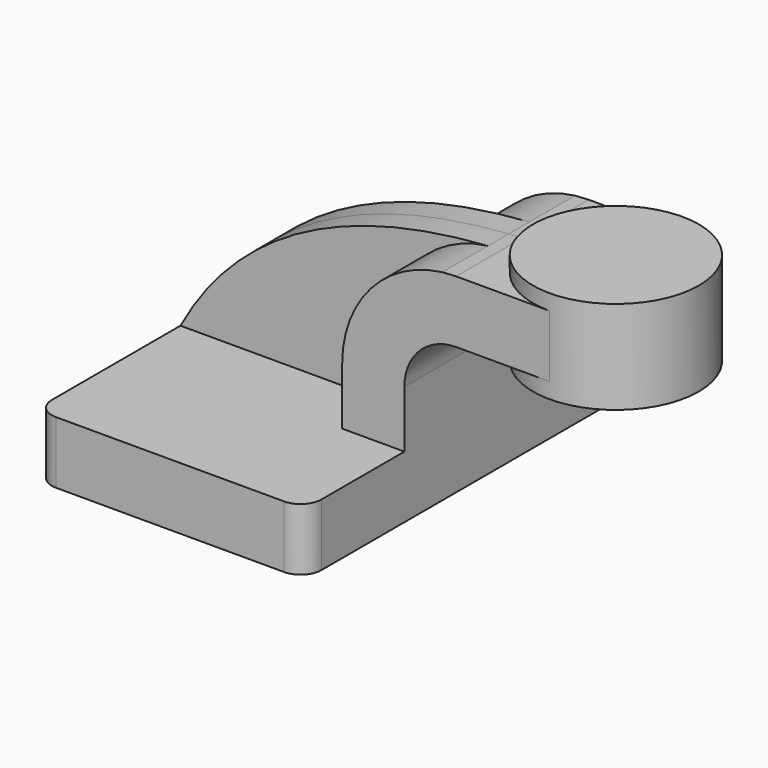
from build123d import *

# Parameters (mm, degrees)
F1_DEPTH = 63.5
F2_DEPTH = 25.4
F3_DEPTH = 7.9375
F0_W     = 25.4
F0_H     = 19.05
F4_DEPTH = 25.4
F6_R     = 6.35


with BuildPart() as f1:
    # F0 (on Front) → F1 (new body, symmetric)
    with BuildSketch(Plane.XZ):
        Polygon((22.225, 9.525), (-41.275, 9.525), (-41.275, -9.525), (41.275, -9.525), (41.275, 9.525), align=None)
    extrude(amount=F1_DEPTH, both=True)

    # F0 (on Front) → F2 (join, symmetric)
    with BuildSketch(Plane.XZ):
        with BuildLine():
            Line((22.225, 27.0002), (22.225, 9.525))
            Line((22.225, 9.525), (41.275, 9.525))
            Line((41.275, 9.525), (41.275, 27.0002))
            ThreePointArc((41.275, 27.0002), (45.92468, 38.22552), (57.15, 42.8752))
            Line((57.15, 42.8752), (60.325, 42.8752))
            Line((60.325, 42.8752), (60.325, 61.9252))
            Line((60.325, 61.9252), (57.15, 61.9252))
            add(Edge.make_bspline(
                [(52.876999, 61.662818), (54.307987, 61.76468), (55.732814, 61.851718), (57.15, 61.9252)],
                knots=[107.106385, 107.106385, 107.106385, 107.106385, 111.504536, 111.504536, 111.504536, 111.504536], degree=3))
            ThreePointArc((52.876999, 61.662818), (30.987143, 50.135898), (22.225, 27.0002))
        make_face()
    extrude(amount=F2_DEPTH, both=True)

    # F0 (on Front) → F3 (join, symmetric)
    with BuildSketch(Plane.XZ):
        with BuildLine():
            add(Edge.make_bspline(
                [(-41.275, 9.525), (-20.473646, 47.910034), (18.028728, 59.18221), (52.876999, 61.662818)],
                knots=[0, 0, 0, 0, 107.106385, 107.106385, 107.106385, 107.106385], degree=3))
            Line((-41.275, 9.525), (22.225, 9.525))
            Line((22.225, 9.525), (22.225, 27.0002))
            ThreePointArc((22.225, 27.0002), (30.987143, 50.135898), (52.876999, 61.662818))
        make_face()
    extrude(amount=F3_DEPTH, both=True)

    # F0 (on Front) → F4 (join, symmetric)
    with BuildSketch(Plane.XZ):
        with Locations((73.025, 52.4002)):
            Rectangle(F0_W, F0_H)
    extrude(amount=F4_DEPTH, both=True)

    # F0 (on Front) → F5 (revolve)
    with BuildSketch(Plane.XZ):
        Polygon((85.725, 66.675), (85.725, 61.9252), (85.725, 42.8752), (85.725, 38.1), (111.125, 38.1), (111.125, 66.675), align=None)
    revolve(axis=Axis((85.725, 0, 52.3875), (0, 0, -1)))

    # F6
    f6_edges = [f1.edges().sort_by_distance(p)[0] for p in [
        (41.275, -63.5, 0),
        (41.275, 63.5, 0),
        (-41.275, 63.5, 0),
        (-41.275, -63.5, 0),
    ]]
    fillet(f6_edges, radius=F6_R)


solid = f1.part
